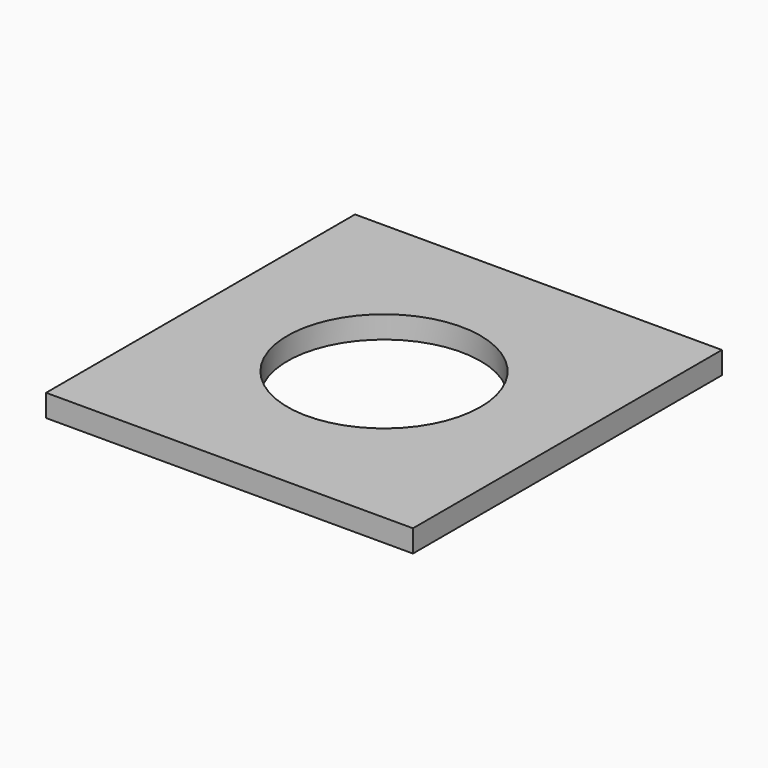
from build123d import *

# Parameters (mm, degrees)
SKETCH_W     = 49.4
SKETCH_H     = 52
SKETCH_R     = 13
PAD_DEPTH    = 3
SKETCH001_R  = 3.1
POCKET_DEPTH = 2.4


with BuildPart() as part:
    # Sketch → Pad (new body)
    with BuildSketch(Plane.XY):
        with Locations((24.7, 26)):
            Rectangle(SKETCH_W, SKETCH_H)
        with Locations((24.7, 26)):
            Circle(SKETCH_R, mode=Mode.SUBTRACT)
    extrude(amount=PAD_DEPTH)

    # Sketch001 → Pocket (cut)
    with BuildSketch(Plane.XY):
        with Locations((24.7, 6)):
            Circle(SKETCH001_R)
        with Locations((6, 26)):
            Circle(SKETCH001_R)
        with Locations((43.4, 26)):
            Circle(SKETCH001_R)
    extrude(amount=POCKET_DEPTH, mode=Mode.SUBTRACT)


solid = part.part
